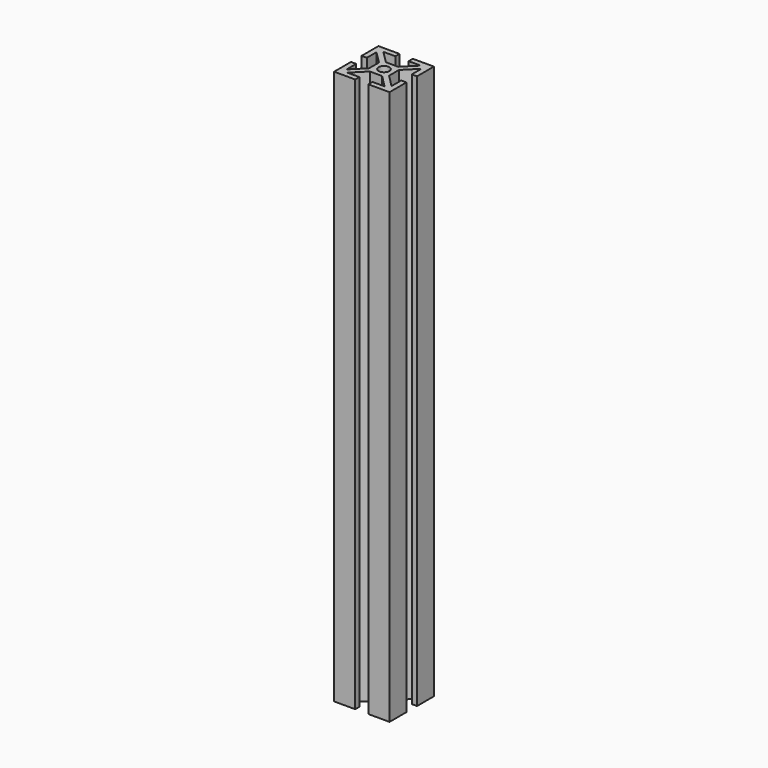
from build123d import *

# Parameters (mm, degrees)
F0_R     = 1.930485
F1_DEPTH = 200


with BuildPart() as f1:
    # F0 (on Top) → F1 (new body)
    with BuildSketch(Plane.XY):
        Polygon((-2.354074, 9.962397), (-9.976016, 9.962397), (-9.976016, 2.34654), (-8.085774, 2.34654), (-8.085774, 6.700205), (-3.585773, 2.2002), (-3.585773, -2.275398), (-8.085774, -6.775401), (-8.085774, -2.421741), (-9.976016, -2.421741), (-9.976016, -10.0376), (-2.360173, -10.0376), (-2.360173, -8.16564), (-6.701627, -8.16564), (-2.183332, -3.647359), (2.225208, -3.647359), (6.743487, -8.16564), (2.402027, -8.16564), (2.402027, -10.0376), (10.023987, -10.0376), (10.023987, -2.421741), (8.133748, -2.421741), (8.133748, -6.775401), (3.633729, -2.275398), (3.633729, 2.2002), (8.133748, 6.700205), (8.133748, 2.34654), (10.023987, 2.34654), (10.023987, 9.962397), (2.408128, 9.962397), (2.408128, 8.090445), (6.749588, 8.090445), (2.231307, 3.57216), (-2.177233, 3.57216), (-6.69553, 8.090445), (-2.354074, 8.090445), align=None)
        with Locations((0.027037, -0.037599)):
            Circle(F0_R, mode=Mode.SUBTRACT)
    extrude(amount=F1_DEPTH)


solid = f1.part
